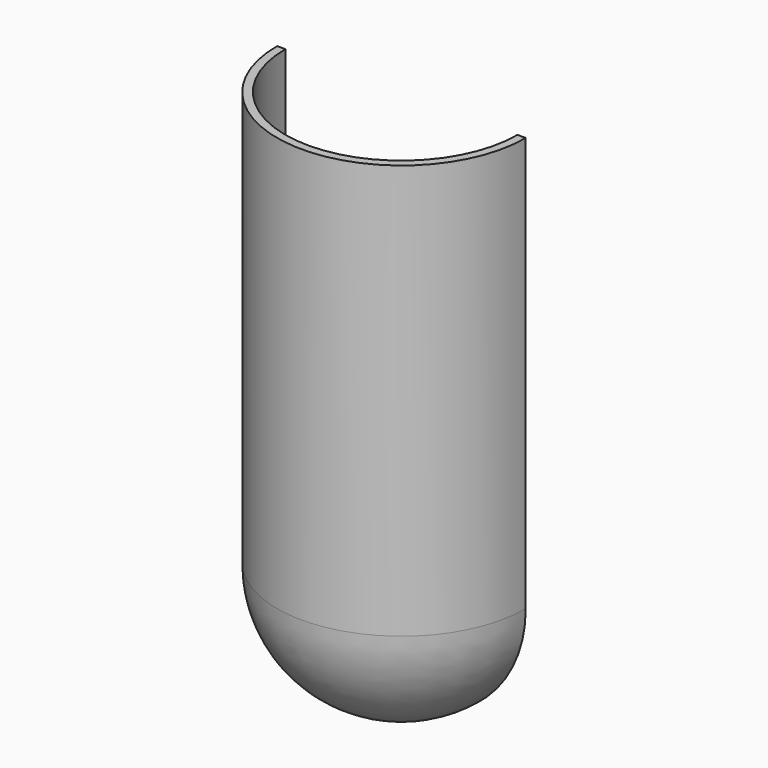
from build123d import *

# Parameters (mm, degrees)
F4_DEPTH = 65.001
F5_T     = -1


with BuildPart() as f1:
    # F0 (on Front) → F1 (revolve)
    with BuildSketch(Plane.XZ):
        with BuildLine():
            Line((-15, 50), (-15, 0))
            ThreePointArc((-15, 0), (-10.606602, -10.606602), (0, -15))
            Line((0, -15), (0, 50))
            Line((0, 50), (-15, 50))
        make_face()
    revolve(axis=Axis((0, 0, 17.5), (0, 0, 1)))

    # F3 (on offset) → F4 (cut, through all)
    with BuildSketch(Plane.XY.offset(50)):
        with BuildLine():
            Line((-15, 0), (15, 0))
            ThreePointArc((15, 0), (0, 15), (-15, 0))
        make_face()
    extrude(amount=-F4_DEPTH, mode=Mode.SUBTRACT)

    # F5
    f5_openings = [f1.faces().sort_by_distance(p)[0] for p in [
        (0, 0, 19.018801),
        (0, -6.366198, 50),
    ]]
    offset(amount=F5_T, openings=f5_openings)


solid = f1.part
